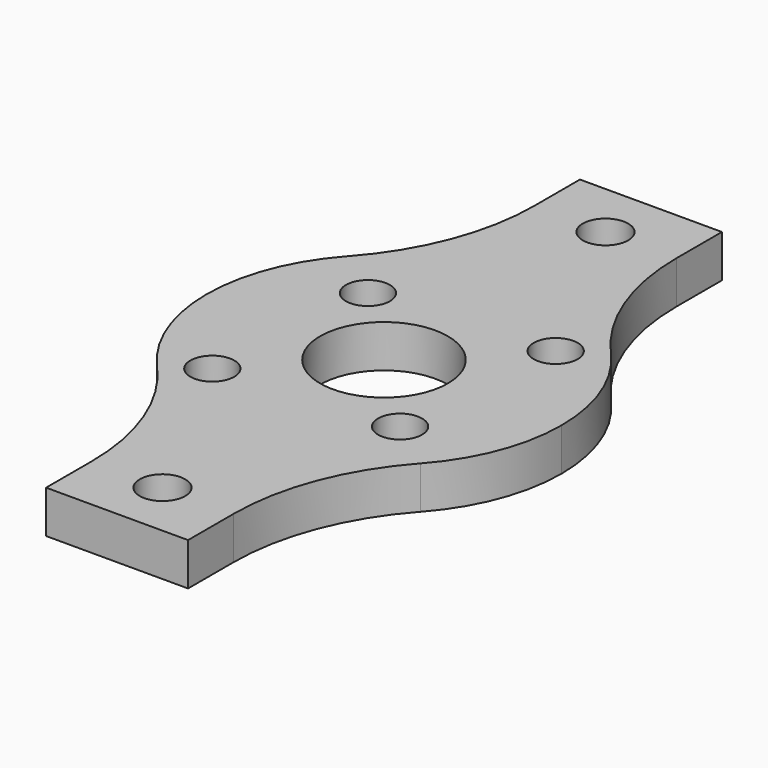
from build123d import *

# Parameters (mm, degrees)
F0_R     = 1.55
F0_R_2   = 1.6
F0_R_3   = 4.5
F1_DEPTH = 3


with BuildPart() as f1:
    # F0 (on Top) → F1 (new body)
    with BuildSketch(Plane.XY):
        with BuildLine():
            ThreePointArc((-5, 19.5), (-6.106463, 13.540947), (-9.278351, 8.376289))
            ThreePointArc((-9.278351, 8.376289), (-11.66682, 4.487238), (-12.5, 0))
            ThreePointArc((-12.5, 0), (-11.66682, -4.487238), (-9.278351, -8.376289))
            ThreePointArc((-9.278351, -8.376289), (-6.106463, -13.540947), (-5, -19.5))
            Line((-5, -19.5), (-5, -23.5))
            Line((-5, -23.5), (5, -23.5))
            Line((5, -23.5), (5, -19.5))
            ThreePointArc((5, -19.5), (6.106463, -13.540947), (9.278351, -8.376289))
            ThreePointArc((9.278351, -8.376289), (11.66682, -4.487238), (12.5, 0))
            ThreePointArc((12.5, 0), (11.66682, 4.487238), (9.278351, 8.376289))
            ThreePointArc((9.278351, 8.376289), (6.106463, 13.540947), (5, 19.5))
            Line((5, 19.5), (5, 23.5))
            Line((5, 23.5), (-5, 23.5))
            Line((-5, 23.5), (-5, 19.5))
        make_face()
        with Locations((-6.717514, -6.717514)):
            Circle(F0_R, mode=Mode.SUBTRACT)
        with Locations((0, -19.5)):
            Circle(F0_R_2, mode=Mode.SUBTRACT)
        with Locations((5.656854, -5.656854)):
            Circle(F0_R, mode=Mode.SUBTRACT)
        with Locations((-5.656854, 5.656854)):
            Circle(F0_R, mode=Mode.SUBTRACT)
        Circle(F0_R_3, mode=Mode.SUBTRACT)
        with Locations((6.717514, 6.717514)):
            Circle(F0_R, mode=Mode.SUBTRACT)
        with Locations((0, 19.5)):
            Circle(F0_R_2, mode=Mode.SUBTRACT)
    extrude(amount=F1_DEPTH)


solid = f1.part
